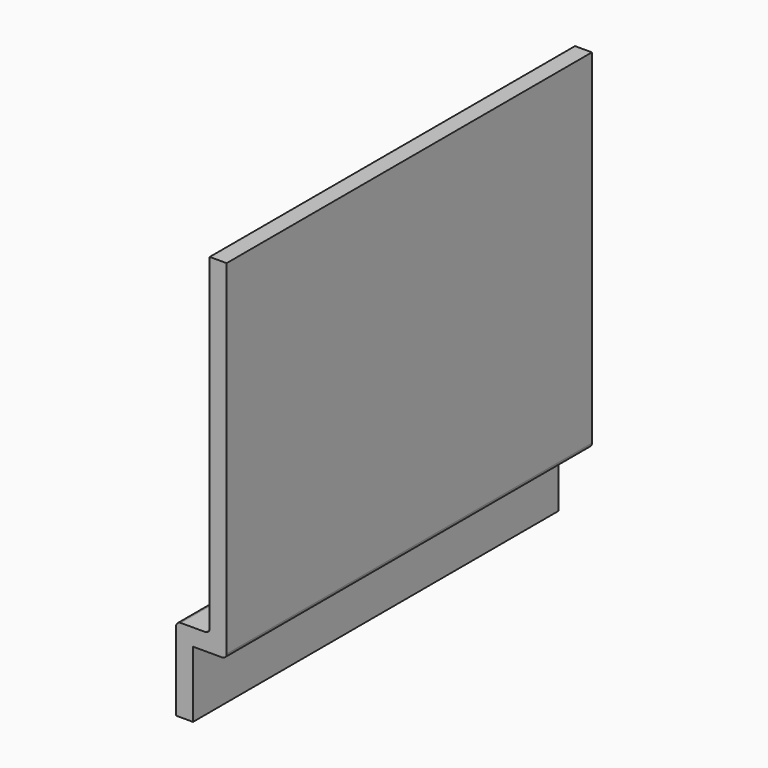
from build123d import *

# Parameters (mm, degrees)
F0_W     = 0.9398
F0_H     = 18.449359
F0_H_2   = 3.68714
F1_DEPTH = 25.4
F2_R     = 0.254


with BuildPart() as f1:
    # F0 (on Front) → F1 (new body)
    with BuildSketch(Plane.XZ):
        with Locations((1.870772, 12.008049)):
            Rectangle(F0_W, F0_H)
        Polygon((-0.4699, 1.84357), (0.4699, 1.84357), (2.340672, 1.84357), (2.340672, 2.78337), (1.400872, 2.78337), (-0.4699, 2.78337), align=None)
        Rectangle(F0_W, F0_H_2)
    extrude(amount=F1_DEPTH)

    # F2
    f2_edges = [f1.edges().sort_by_distance(p)[0] for p in [
        (1.400872, -12.7, 2.78337),
        (-0.4699, -12.7, 2.78337),
        (2.340672, -12.7, 1.84357),
    ]]
    fillet(f2_edges, radius=F2_R)


solid = f1.part
